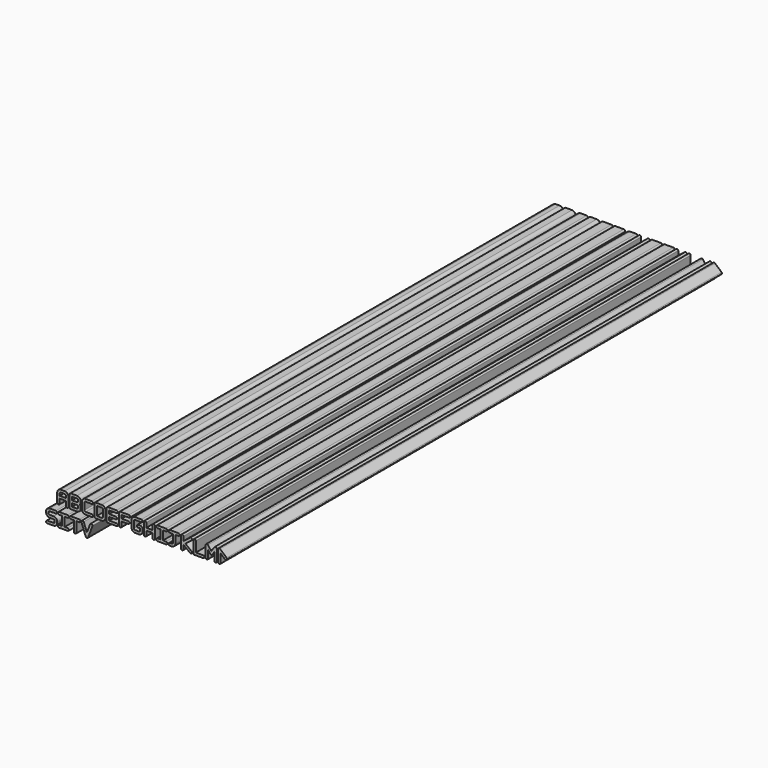
from build123d import *

# Parameters (mm, degrees)
F1_DEPTH = 2540


with BuildPart() as f1:
    # F0 (on Front) → F1 (new body)
    with BuildSketch(Plane.XZ):
        with BuildLine():
            ThreePointArc((108.8912541879, -28.6822281451), (102.3422281451, -25.7287458121), (99.3887458121, -32.2777718549))
            Line((99.3887458121, -32.2777718549), (117.1687458121, -79.2677718549))
            ThreePointArc((117.1687458121, -79.2677718549), (121.92, -82.55), (126.6712541879, -79.2677718549))
            ThreePointArc((126.6712541879, -79.2677718549), (127, -77.47), (126.6712541879, -75.6722281451))
            Line((126.6712541879, -75.6722281451), (121.92, -63.1153420772))
            Line((121.92, -63.1153420772), (108.8912541879, -28.6822281451))
        make_face()
        with BuildLine():
            ThreePointArc((126.6712541879, -75.6722281451), (127, -77.47), (126.6712541879, -79.2677718549))
            Line((126.6712541879, -79.2677718549), (144.4512541879, -32.2777718549))
            Line((144.4512541879, -32.2777718549), (134.9487458121, -28.6822281451))
            Line((134.9487458121, -28.6822281451), (121.92, -63.1153420772))
            Line((121.92, -63.1153420772), (126.6712541879, -75.6722281451))
        make_face()
        with BuildLine():
            Line((134.9487458121, -28.6822281451), (144.4512541879, -32.2777718549))
            ThreePointArc((144.4512541879, -32.2777718549), (141.4977718549, -25.7287458121), (134.9487458121, -28.6822281451))
        make_face()
    extrude(amount=-F1_DEPTH)


with BuildPart() as f1b:
    # F0 (on Front) → F1, piece 2 (new body)
    with BuildSketch(Plane.XZ):
        with BuildLine():
            ThreePointArc((-40.64, -72.39), (-45.72, -77.47), (-40.64, -82.55))
            Line((-40.64, -82.55), (-15.24, -82.55))
            ThreePointArc((-15.24, -82.55), (-4.4636926547, -78.0863073453), (0, -67.31))
            Line((0, -67.31), (0, -64.135))
            ThreePointArc((0, -64.135), (-4.4636926547, -53.3586926547), (-15.24, -48.895))
            Line((-15.24, -48.895), (-30.48, -48.895))
            ThreePointArc((-30.48, -48.895), (-34.0721024484, -47.4071024484), (-35.56, -43.815))
            Line((-35.56, -43.815), (-35.56, -40.64))
            ThreePointArc((-35.56, -40.64), (-34.0721024484, -37.0478975516), (-30.48, -35.56))
            Line((-30.48, -35.56), (-5.08, -35.56))
            ThreePointArc((-5.08, -35.56), (0, -30.48), (-5.08, -25.4))
            Line((-5.08, -25.4), (-30.48, -25.4))
            ThreePointArc((-30.48, -25.4), (-41.2563073453, -29.8636926547), (-45.72, -40.64))
            Line((-45.72, -40.64), (-45.72, -43.815))
            ThreePointArc((-45.72, -43.815), (-41.2563073453, -54.5913073453), (-30.48, -59.055))
            Line((-30.48, -59.055), (-15.24, -59.055))
            ThreePointArc((-15.24, -59.055), (-11.6478975516, -60.5428975516), (-10.16, -64.135))
            Line((-10.16, -64.135), (-10.16, -67.31))
            ThreePointArc((-10.16, -67.31), (-11.6478975516, -70.9021024484), (-15.24, -72.39))
            Line((-15.24, -72.39), (-40.64, -72.39))
        make_face()
    extrude(amount=-F1_DEPTH)


with BuildPart() as f1c:
    # F0 (on Front) → F1, piece 3 (new body)
    with BuildSketch(Plane.XZ):
        with BuildLine():
            ThreePointArc((7.62, -72.39), (2.54, -77.47), (7.62, -82.55))
            Line((7.62, -82.55), (43.18, -82.55))
            ThreePointArc((43.18, -82.55), (48.26, -77.47), (43.18, -72.39))
            Line((43.18, -72.39), (30.48, -72.39))
            Line((30.48, -72.39), (30.48, -35.56))
            Line((30.48, -35.56), (43.18, -35.56))
            ThreePointArc((43.18, -35.56), (48.26, -30.48), (43.18, -25.4))
            Line((43.18, -25.4), (7.62, -25.4))
            ThreePointArc((7.62, -25.4), (2.54, -30.48), (7.62, -35.56))
            Line((7.62, -35.56), (20.32, -35.56))
            Line((20.32, -35.56), (20.32, -72.39))
            Line((20.32, -72.39), (7.62, -72.39))
        make_face()
    extrude(amount=-F1_DEPTH)


with BuildPart() as f1d:
    # F0 (on Front) → F1, piece 4 (new body)
    with BuildSketch(Plane.XZ):
        with BuildLine():
            ThreePointArc((55.88, -25.4), (50.8, -30.48), (55.88, -35.56))
            Line((55.88, -35.56), (68.58, -35.56))
            Line((68.58, -35.56), (68.58, -77.47))
            ThreePointArc((68.58, -77.47), (73.66, -82.55), (78.74, -77.47))
            Line((78.74, -77.47), (78.74, -35.56))
            Line((78.74, -35.56), (91.44, -35.56))
            ThreePointArc((91.44, -35.56), (96.52, -30.48), (91.44, -25.4))
            Line((91.44, -25.4), (55.88, -25.4))
        make_face()
    extrude(amount=-F1_DEPTH)


with BuildPart() as f1e:
    # F0 (on Front) → F1, piece 5 (new body)
    with BuildSketch(Plane.XZ):
        with BuildLine():
            ThreePointArc((35.56, 5.08), (40.64, 0), (45.72, 5.08))
            Line((45.72, 5.08), (45.72, 41.91))
            ThreePointArc((45.72, 41.91), (41.2563073453, 52.6863073453), (30.48, 57.15))
            Line((30.48, 57.15), (15.24, 57.15))
            ThreePointArc((15.24, 57.15), (4.4636926547, 52.6863073453), (0, 41.91))
            Line((0, 41.91), (0, 5.08))
            ThreePointArc((0, 5.08), (5.08, 0), (10.16, 5.08))
            Line((10.16, 5.08), (10.16, 23.495))
            Line((10.16, 23.495), (35.56, 23.495))
            Line((35.56, 23.495), (35.56, 5.08))
        make_face()
        with BuildLine():
            ThreePointArc((10.16, 41.91), (11.6478975516, 45.5021024484), (15.24, 46.99))
            Line((15.24, 46.99), (30.48, 46.99))
            ThreePointArc((30.48, 46.99), (34.0721024484, 45.5021024484), (35.56, 41.91))
            Line((35.56, 41.91), (35.56, 33.655))
            Line((35.56, 33.655), (10.16, 33.655))
            Line((10.16, 33.655), (10.16, 41.91))
        make_face(mode=Mode.SUBTRACT)
    extrude(amount=-F1_DEPTH)


with BuildPart() as f1f:
    # F0 (on Front) → F1, piece 6 (new body)
    with BuildSketch(Plane.XZ):
        with BuildLine():
            Line((50.8, 52.07), (50.8, 5.08))
            ThreePointArc((50.8, 5.08), (52.2878975516, 1.4878975516), (55.88, 0))
            Line((55.88, 0), (81.28, 0))
            ThreePointArc((81.28, 0), (92.0563073453, 4.4636926547), (96.52, 15.24))
            Line((96.52, 15.24), (96.52, 18.415))
            ThreePointArc((96.52, 18.415), (95.5167867506, 23.8529686481), (92.6392253257, 28.575))
            ThreePointArc((92.6392253257, 28.575), (95.5167867506, 33.2970313519), (96.52, 38.735))
            Line((96.52, 38.735), (96.52, 41.91))
            ThreePointArc((96.52, 41.91), (92.0563073453, 52.6863073453), (81.28, 57.15))
            Line((81.28, 57.15), (55.88, 57.15))
            ThreePointArc((55.88, 57.15), (52.2878975516, 55.6621024484), (50.8, 52.07))
        make_face()
        with BuildLine():
            Line((81.28, 10.16), (60.96, 10.16))
            Line((60.96, 10.16), (60.96, 23.495))
            Line((60.96, 23.495), (81.28, 23.495))
            ThreePointArc((81.28, 23.495), (84.8721024484, 22.0071024484), (86.36, 18.415))
            Line((86.36, 18.415), (86.36, 15.24))
            ThreePointArc((86.36, 15.24), (84.8721024484, 11.6478975516), (81.28, 10.16))
        make_face(mode=Mode.SUBTRACT)
        with BuildLine():
            Line((60.96, 33.655), (60.96, 46.99))
            Line((60.96, 46.99), (81.28, 46.99))
            ThreePointArc((81.28, 46.99), (84.8721024484, 45.5021024484), (86.36, 41.91))
            Line((86.36, 41.91), (86.36, 38.735))
            ThreePointArc((86.36, 38.735), (84.8721024484, 35.1428975516), (81.28, 33.655))
            Line((81.28, 33.655), (60.96, 33.655))
        make_face(mode=Mode.SUBTRACT)
    extrude(amount=-F1_DEPTH)


with BuildPart() as f1g:
    # F0 (on Front) → F1, piece 7 (new body)
    with BuildSketch(Plane.XZ):
        with BuildLine():
            Line((101.6, 41.91), (101.6, 15.24))
            ThreePointArc((101.6, 15.24), (106.0636926547, 4.4636926547), (116.84, 0))
            Line((116.84, 0), (142.24, 0))
            ThreePointArc((142.24, 0), (147.32, 5.08), (142.24, 10.16))
            Line((142.24, 10.16), (116.84, 10.16))
            ThreePointArc((116.84, 10.16), (113.2478975516, 11.6478975516), (111.76, 15.24))
            Line((111.76, 15.24), (111.76, 41.91))
            ThreePointArc((111.76, 41.91), (113.2478975516, 45.5021024484), (116.84, 46.99))
            Line((116.84, 46.99), (142.24, 46.99))
            ThreePointArc((142.24, 46.99), (147.32, 52.07), (142.24, 57.15))
            Line((142.24, 57.15), (116.84, 57.15))
            ThreePointArc((116.84, 57.15), (106.0636926547, 52.6863073453), (101.6, 41.91))
        make_face()
    extrude(amount=-F1_DEPTH)


with BuildPart() as f1h:
    # F0 (on Front) → F1, piece 8 (new body)
    with BuildSketch(Plane.XZ):
        with BuildLine():
            Line((152.4, 52.07), (152.4, 5.08))
            ThreePointArc((152.4, 5.08), (153.8878975516, 1.4878975516), (157.48, 0))
            Line((157.48, 0), (182.88, 0))
            ThreePointArc((182.88, 0), (193.6563073453, 4.4636926547), (198.12, 15.24))
            Line((198.12, 15.24), (198.12, 41.91))
            ThreePointArc((198.12, 41.91), (193.6563073453, 52.6863073453), (182.88, 57.15))
            Line((182.88, 57.15), (157.48, 57.15))
            ThreePointArc((157.48, 57.15), (153.8878975516, 55.6621024484), (152.4, 52.07))
        make_face()
        with BuildLine():
            Line((162.56, 10.16), (162.56, 46.99))
            Line((162.56, 46.99), (182.88, 46.99))
            ThreePointArc((182.88, 46.99), (186.4721024484, 45.5021024484), (187.96, 41.91))
            Line((187.96, 41.91), (187.96, 15.24))
            ThreePointArc((187.96, 15.24), (186.4721024484, 11.6478975516), (182.88, 10.16))
            Line((182.88, 10.16), (162.56, 10.16))
        make_face(mode=Mode.SUBTRACT)
    extrude(amount=-F1_DEPTH)


with BuildPart() as f1i:
    # F0 (on Front) → F1, piece 9 (new body)
    with BuildSketch(Plane.XZ):
        with BuildLine():
            Line((203.2, 52.07), (203.2, 5.08))
            ThreePointArc((203.2, 5.08), (204.6878975516, 1.4878975516), (208.28, 0))
            Line((208.28, 0), (243.84, 0))
            ThreePointArc((243.84, 0), (248.92, 5.08), (243.84, 10.16))
            Line((243.84, 10.16), (213.36, 10.16))
            Line((213.36, 10.16), (213.36, 23.495))
            Line((213.36, 23.495), (240.665, 23.495))
            ThreePointArc((240.665, 23.495), (245.745, 28.575), (240.665, 33.655))
            Line((240.665, 33.655), (213.36, 33.655))
            Line((213.36, 33.655), (213.36, 46.99))
            Line((213.36, 46.99), (243.84, 46.99))
            ThreePointArc((243.84, 46.99), (248.92, 52.07), (243.84, 57.15))
            Line((243.84, 57.15), (208.28, 57.15))
            ThreePointArc((208.28, 57.15), (204.6878975516, 55.6621024484), (203.2, 52.07))
        make_face()
    extrude(amount=-F1_DEPTH)


with BuildPart() as f1j:
    # F0 (on Front) → F1, piece 10 (new body)
    with BuildSketch(Plane.XZ):
        with BuildLine():
            Line((254, 52.07), (254, 5.08))
            ThreePointArc((254, 5.08), (259.08, 0), (264.16, 5.08))
            Line((264.16, 5.08), (264.16, 23.495))
            Line((264.16, 23.495), (291.465, 23.495))
            ThreePointArc((291.465, 23.495), (296.545, 28.575), (291.465, 33.655))
            Line((291.465, 33.655), (264.16, 33.655))
            Line((264.16, 33.655), (264.16, 46.99))
            Line((264.16, 46.99), (294.64, 46.99))
            ThreePointArc((294.64, 46.99), (299.72, 52.07), (294.64, 57.15))
            Line((294.64, 57.15), (259.08, 57.15))
            ThreePointArc((259.08, 57.15), (255.4878975516, 55.6621024484), (254, 52.07))
        make_face()
    extrude(amount=-F1_DEPTH)


with BuildPart() as f1k:
    # F0 (on Front) → F1, piece 11 (new body)
    with BuildSketch(Plane.XZ):
        with BuildLine():
            Line((345.44, 57.15), (320.04, 57.15))
            ThreePointArc((320.04, 57.15), (309.2636926547, 52.6863073453), (304.8, 41.91))
            Line((304.8, 41.91), (304.8, 15.24))
            ThreePointArc((304.8, 15.24), (309.2636926547, 4.4636926547), (320.04, 0))
            Line((320.04, 0), (335.28, 0))
            ThreePointArc((335.28, 0), (346.0563073453, 4.4636926547), (350.52, 15.24))
            Line((350.52, 15.24), (350.52, 23.495))
            ThreePointArc((350.52, 23.495), (347.5442048969, 30.6792048969), (340.36, 33.655))
            Line((340.36, 33.655), (332.105, 33.655))
            ThreePointArc((332.105, 33.655), (327.025, 28.575), (332.105, 23.495))
            Line((332.105, 23.495), (340.36, 23.495))
            Line((340.36, 23.495), (340.36, 15.24))
            ThreePointArc((340.36, 15.24), (338.8721024484, 11.6478975516), (335.28, 10.16))
            Line((335.28, 10.16), (320.04, 10.16))
            ThreePointArc((320.04, 10.16), (316.4478975516, 11.6478975516), (314.96, 15.24))
            Line((314.96, 15.24), (314.96, 41.91))
            ThreePointArc((314.96, 41.91), (316.4478975516, 45.5021024484), (320.04, 46.99))
            Line((320.04, 46.99), (345.44, 46.99))
            ThreePointArc((345.44, 46.99), (350.52, 52.07), (345.44, 57.15))
        make_face()
    extrude(amount=-F1_DEPTH)


with BuildPart() as f1l:
    # F0 (on Front) → F1, piece 12 (new body)
    with BuildSketch(Plane.XZ):
        with BuildLine():
            Line((365.76, 33.655), (365.76, 52.07))
            ThreePointArc((365.76, 52.07), (360.68, 57.15), (355.6, 52.07))
            Line((355.6, 52.07), (355.6, 5.08))
            ThreePointArc((355.6, 5.08), (360.68, 0), (365.76, 5.08))
            Line((365.76, 5.08), (365.76, 23.495))
            Line((365.76, 23.495), (391.16, 23.495))
            Line((391.16, 23.495), (391.16, 5.08))
            ThreePointArc((391.16, 5.08), (396.24, 0), (401.32, 5.08))
            Line((401.32, 5.08), (401.32, 52.07))
            ThreePointArc((401.32, 52.07), (396.24, 57.15), (391.16, 52.07))
            Line((391.16, 52.07), (391.16, 33.655))
            Line((391.16, 33.655), (365.76, 33.655))
        make_face()
    extrude(amount=-F1_DEPTH)


with BuildPart() as f1m:
    # F0 (on Front) → F1, piece 13 (new body)
    with BuildSketch(Plane.XZ):
        with BuildLine():
            ThreePointArc((411.48, 57.15), (406.4, 52.07), (411.48, 46.99))
            Line((411.48, 46.99), (424.18, 46.99))
            Line((424.18, 46.99), (424.18, 10.16))
            Line((424.18, 10.16), (411.48, 10.16))
            ThreePointArc((411.48, 10.16), (406.4, 5.08), (411.48, 0))
            Line((411.48, 0), (447.04, 0))
            ThreePointArc((447.04, 0), (452.12, 5.08), (447.04, 10.16))
            Line((447.04, 10.16), (434.34, 10.16))
            Line((434.34, 10.16), (434.34, 46.99))
            Line((434.34, 46.99), (447.04, 46.99))
            ThreePointArc((447.04, 46.99), (452.12, 52.07), (447.04, 57.15))
            Line((447.04, 57.15), (411.48, 57.15))
        make_face()
    extrude(amount=-F1_DEPTH)


with BuildPart() as f1n:
    # F0 (on Front) → F1, piece 14 (new body)
    with BuildSketch(Plane.XZ):
        with BuildLine():
            Line((469.9, 10.16), (462.28, 10.16))
            ThreePointArc((462.28, 10.16), (457.2, 5.08), (462.28, 0))
            Line((462.28, 0), (469.9, 0))
            ThreePointArc((469.9, 0), (480.6763073453, 4.4636926547), (485.14, 15.24))
            Line((485.14, 15.24), (485.14, 46.99))
            Line((485.14, 46.99), (497.84, 46.99))
            ThreePointArc((497.84, 46.99), (502.92, 52.07), (497.84, 57.15))
            Line((497.84, 57.15), (462.28, 57.15))
            ThreePointArc((462.28, 57.15), (457.2, 52.07), (462.28, 46.99))
            Line((462.28, 46.99), (474.98, 46.99))
            Line((474.98, 46.99), (474.98, 15.24))
            ThreePointArc((474.98, 15.24), (473.4921024484, 11.6478975516), (469.9, 10.16))
        make_face()
    extrude(amount=-F1_DEPTH)


with BuildPart() as f1o:
    # F0 (on Front) → F1, piece 15 (new body)
    with BuildSketch(Plane.XZ):
        with BuildLine():
            Line((518.16, 34.9890588315), (518.16, 52.07))
            ThreePointArc((518.16, 52.07), (513.08, 57.15), (508, 52.07))
            Line((508, 52.07), (508, 5.08))
            ThreePointArc((508, 5.08), (513.08, 0), (518.16, 5.08))
            Line((518.16, 5.08), (518.16, 22.1609411685))
            Line((518.16, 22.1609411685), (545.5386200695, 1.0565881982))
            ThreePointArc((545.5386200695, 1.0565881982), (552.6634118018, 1.9786200695), (551.7413799305, 9.1034118018))
            Line((551.7413799305, 9.1034118018), (526.4809411869, 28.575))
            Line((526.4809411869, 28.575), (551.7413799305, 48.0465881982))
            ThreePointArc((551.7413799305, 48.0465881982), (552.6634118018, 55.1713799305), (545.5386200695, 56.0934118018))
            Line((545.5386200695, 56.0934118018), (518.16, 34.9890588315))
        make_face()
    extrude(amount=-F1_DEPTH)


with BuildPart() as f1p:
    # F0 (on Front) → F1, piece 16 (new body)
    with BuildSketch(Plane.XZ):
        with BuildLine():
            Line((568.96, 10.16), (568.96, 52.07))
            ThreePointArc((568.96, 52.07), (563.88, 57.15), (558.8, 52.07))
            Line((558.8, 52.07), (558.8, 5.08))
            ThreePointArc((558.8, 5.08), (560.2878975516, 1.4878975516), (563.88, 0))
            Line((563.88, 0), (599.44, 0))
            ThreePointArc((599.44, 0), (604.52, 5.08), (599.44, 10.16))
            Line((599.44, 10.16), (568.96, 10.16))
        make_face()
    extrude(amount=-F1_DEPTH)


with BuildPart() as f1q:
    # F0 (on Front) → F1, piece 17 (new body)
    with BuildSketch(Plane.XZ):
        with BuildLine():
            Line((645.16, 36.6119782138), (645.16, 5.08))
            ThreePointArc((645.16, 5.08), (650.24, 0), (655.32, 5.08))
            Line((655.32, 5.08), (655.32, 52.07))
            ThreePointArc((655.32, 52.07), (655.0660746451, 50.4839976294), (654.3296836538, 49.0565488867))
            Line((654.3296836538, 49.0565488867), (645.16, 36.6119782138))
        make_face()
        with BuildLine():
            Line((636.5496836538, 24.9265488867), (645.16, 36.6119782138))
            Line((645.16, 36.6119782138), (654.3296836538, 49.0565488867))
            ThreePointArc((654.3296836538, 49.0565488867), (647.2265488867, 47.9803163462), (646.1503163462, 55.0834511133))
            Line((646.1503163462, 55.0834511133), (632.3505275184, 36.3551662756))
            Line((632.3505275184, 36.3551662756), (636.4699092643, 31.0588183167))
            ThreePointArc((636.4699092643, 31.0588183167), (637.2650358512, 29.5886450403), (637.54, 27.94))
            ThreePointArc((637.54, 27.94), (637.2860746451, 26.3539976294), (636.5496836538, 24.9265488867))
        make_face()
        with BuildLine():
            ThreePointArc((654.3296836538, 49.0565488867), (655.0660746451, 50.4839976294), (655.32, 52.07))
            ThreePointArc((655.32, 52.07), (651.8260023706, 56.8960746451), (646.1503163462, 55.0834511133))
            ThreePointArc((646.1503163462, 55.0834511133), (647.2265488867, 47.9803163462), (654.3296836538, 49.0565488867))
        make_face()
        with BuildLine():
            ThreePointArc((628.4500907357, 24.8211816833), (632.5260798773, 22.8604297967), (636.5496836538, 24.9265488867))
            ThreePointArc((636.5496836538, 24.9265488867), (637.2860746451, 26.3539976294), (637.54, 27.94))
            ThreePointArc((637.54, 27.94), (637.2650358512, 29.5886450403), (636.4699092643, 31.0588183167))
            ThreePointArc((636.4699092643, 31.0588183167), (632.3939201227, 33.0195702033), (628.3703163462, 30.9534511133))
            ThreePointArc((628.3703163462, 30.9534511133), (627.3804297967, 27.8739201227), (628.4500907357, 24.8211816833))
        make_face()
        with BuildLine():
            Line((619.76, 35.9941554864), (628.4500907357, 24.8211816833))
            ThreePointArc((628.4500907357, 24.8211816833), (627.3804297967, 27.8739201227), (628.3703163462, 30.9534511133))
            Line((628.3703163462, 30.9534511133), (632.3505275184, 36.3551662756))
            Line((632.3505275184, 36.3551662756), (618.6899092643, 53.9188183167))
            ThreePointArc((618.6899092643, 53.9188183167), (619.4850358512, 52.4486450403), (619.76, 50.8))
            ThreePointArc((619.76, 50.8), (616.3286450403, 45.9949641488), (610.6700907357, 47.6811816833))
            Line((610.6700907357, 47.6811816833), (619.76, 35.9941554864))
        make_face()
        with BuildLine():
            Line((636.4699092643, 31.0588183167), (632.3505275184, 36.3551662756))
            Line((632.3505275184, 36.3551662756), (628.3703163462, 30.9534511133))
            ThreePointArc((628.3703163462, 30.9534511133), (632.3939201227, 33.0195702033), (636.4699092643, 31.0588183167))
        make_face()
        with BuildLine():
            Line((619.76, 5.08), (619.76, 35.9941554864))
            Line((619.76, 35.9941554864), (610.6700907357, 47.6811816833))
            ThreePointArc((610.6700907357, 47.6811816833), (609.8749641488, 49.1513549597), (609.6, 50.8))
            Line((609.6, 50.8), (609.6, 5.08))
            ThreePointArc((609.6, 5.08), (614.68, 0), (619.76, 5.08))
        make_face()
        with BuildLine():
            ThreePointArc((619.76, 50.8), (619.4850358512, 52.4486450403), (618.6899092643, 53.9188183167))
            ThreePointArc((618.6899092643, 53.9188183167), (613.0313549597, 55.6050358512), (609.6, 50.8))
            ThreePointArc((609.6, 50.8), (609.8749641488, 49.1513549597), (610.6700907357, 47.6811816833))
            ThreePointArc((610.6700907357, 47.6811816833), (616.3286450403, 45.9949641488), (619.76, 50.8))
        make_face()
    extrude(amount=-F1_DEPTH)


with BuildPart() as f1r:
    # F0 (on Front) → F1, piece 18 (new body)
    with BuildSketch(Plane.XZ):
        with BuildLine():
            ThreePointArc((662.1235714286, 48.2567615804), (667.5723363565, 47.4409041302), (670.56, 52.07))
            ThreePointArc((670.56, 52.07), (670.1090958698, 54.1623363565), (668.8364285714, 55.8832384196))
            ThreePointArc((668.8364285714, 55.8832384196), (663.3876636435, 56.6990958698), (660.4, 52.07))
            ThreePointArc((660.4, 52.07), (660.8509041302, 49.9776636435), (662.1235714286, 48.2567615804))
        make_face()
        with BuildLine():
            Line((670.56, 40.8309815001), (670.56, 52.07))
            ThreePointArc((670.56, 52.07), (667.5723363565, 47.4409041302), (662.1235714286, 48.2567615804))
            Line((662.1235714286, 48.2567615804), (670.56, 40.8309815001))
        make_face()
        with BuildLine():
            ThreePointArc((668.8364285714, 55.8832384196), (670.1090958698, 54.1623363565), (670.56, 52.07))
            Line((670.56, 52.07), (670.56, 40.8309815001))
            Line((670.56, 40.8309815001), (688.8162403659, 24.7617615804))
            ThreePointArc((688.8162403659, 24.7617615804), (688.3594305177, 31.9314285714), (695.5290975088, 32.3882384196))
            Line((695.5290975088, 32.3882384196), (668.8364285714, 55.8832384196))
        make_face()
        with BuildLine():
            Line((670.56, 40.8309815001), (662.1235714286, 48.2567615804))
            ThreePointArc((662.1235714286, 48.2567615804), (660.8509041302, 49.9776636435), (660.4, 52.07))
            Line((660.4, 52.07), (660.4, 5.08))
            ThreePointArc((660.4, 5.08), (665.48, 0), (670.56, 5.08))
            Line((670.56, 5.08), (670.56, 40.8309815001))
        make_face()
        with BuildLine():
            ThreePointArc((697.2526689374, 28.575), (696.8017648071, 30.6673363565), (695.5290975088, 32.3882384196))
            ThreePointArc((695.5290975088, 32.3882384196), (688.3594305177, 31.9314285714), (688.8162403659, 24.7617615804))
            ThreePointArc((688.8162403659, 24.7617615804), (694.2650052938, 23.9459041302), (697.2526689374, 28.575))
        make_face()
    extrude(amount=-F1_DEPTH)


solid = Compound([f1.part, f1b.part, f1c.part, f1d.part, f1e.part, f1f.part, f1g.part, f1h.part, f1i.part, f1j.part, f1k.part, f1l.part, f1m.part, f1n.part, f1o.part, f1p.part, f1q.part, f1r.part])
